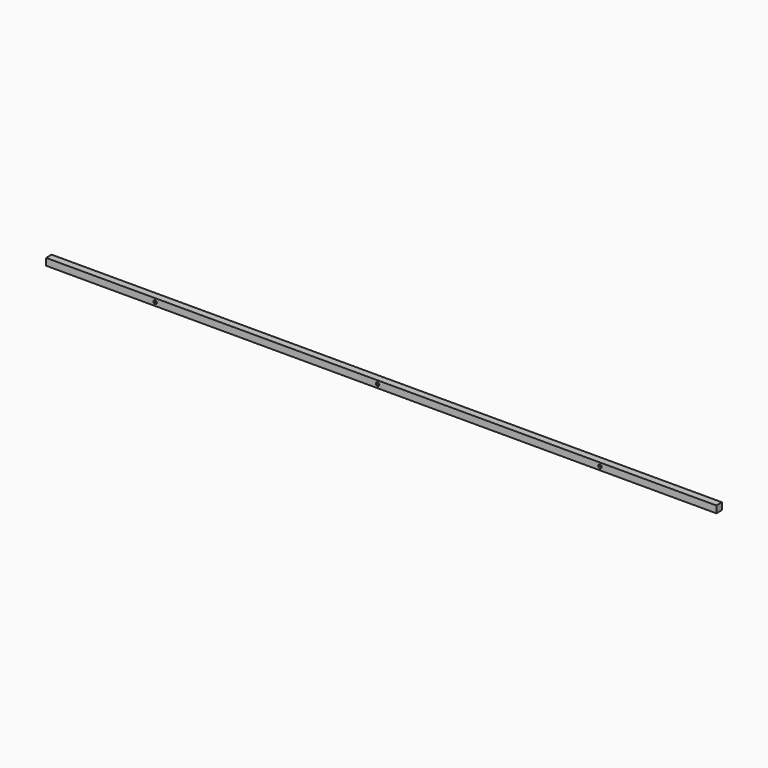
from build123d import *

# Parameters (mm, degrees)
F0_W     = 2449.5125
F0_H     = 25.4
F1_DEPTH = 25.4
F2_R     = 6.35
F3_DEPTH = 6.35


with BuildPart() as f1:
    # F0 (on Front) → F1 (new body)
    with BuildSketch(Plane.XZ):
        with Locations((1224.75625, 12.7)):
            Rectangle(F0_W, F0_H)
    extrude(amount=F1_DEPTH)

    # F2 (on face) → F3 (cut)
    with BuildSketch(Plane.XZ.offset(25.4)):
        with Locations((2024.0625, 12.7)):
            Circle(F2_R)
        with Locations((1211.2625, 12.7)):
            Circle(F2_R)
        with Locations((398.4625, 12.7)):
            Circle(F2_R)
    extrude(amount=-F3_DEPTH, mode=Mode.SUBTRACT)


solid = f1.part
